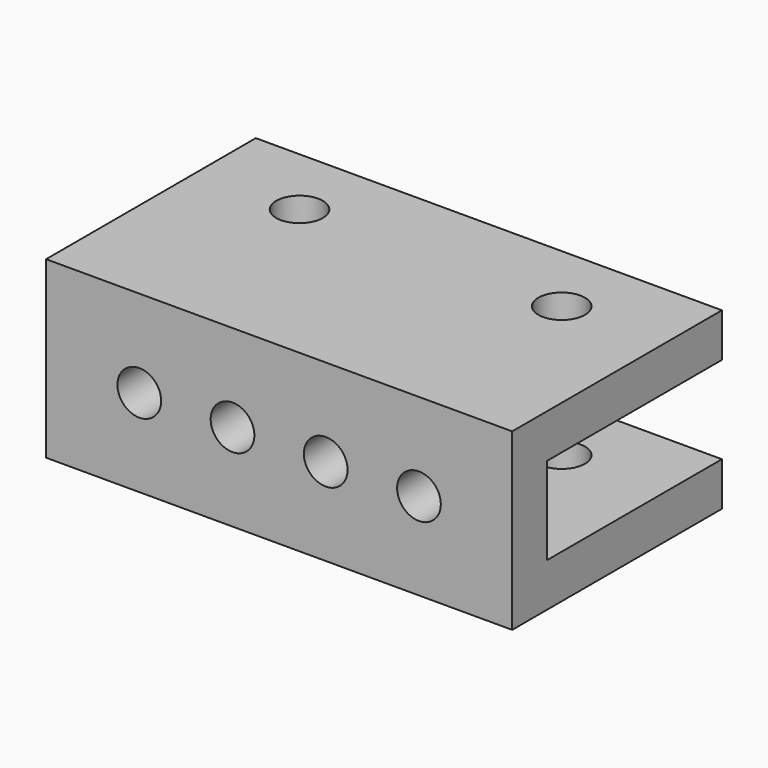
from build123d import *

# Parameters (mm, degrees)
SKETCH_W        = 32
SKETCH_H        = 18
SKETCH_R        = 1.6
PAD_DEPTH       = 12
SKETCH001_W     = 15
SKETCH001_H     = 6
POCKET_DEPTH    = 32.001
SKETCH002_R     = 1.5
POCKET001_DEPTH = 18.001


with BuildPart() as part:
    # Sketch → Pad (new body)
    with BuildSketch(Plane.XY):
        with Locations((16, 9)):
            Rectangle(SKETCH_W, SKETCH_H)
        with Locations((7, 13)):
            Circle(SKETCH_R, mode=Mode.SUBTRACT)
        with Locations((25, 13)):
            Circle(SKETCH_R, mode=Mode.SUBTRACT)
    extrude(amount=PAD_DEPTH)

    # Sketch001 → Pocket (cut, through all)
    with BuildSketch(Plane.YZ.offset(32)):
        with Locations((10.5, 6)):
            Rectangle(SKETCH001_W, SKETCH001_H)
    extrude(amount=-POCKET_DEPTH, mode=Mode.SUBTRACT)

    # Sketch002 → Pocket001 (cut, through all)
    with BuildSketch(Plane.XZ):
        with Locations((6.4, 6)):
            Circle(SKETCH002_R)
        with Locations((12.8, 6)):
            Circle(SKETCH002_R)
        with Locations((19.2, 6)):
            Circle(SKETCH002_R)
        with Locations((25.6, 6)):
            Circle(SKETCH002_R)
    extrude(amount=-POCKET001_DEPTH, mode=Mode.SUBTRACT)


solid = part.part
